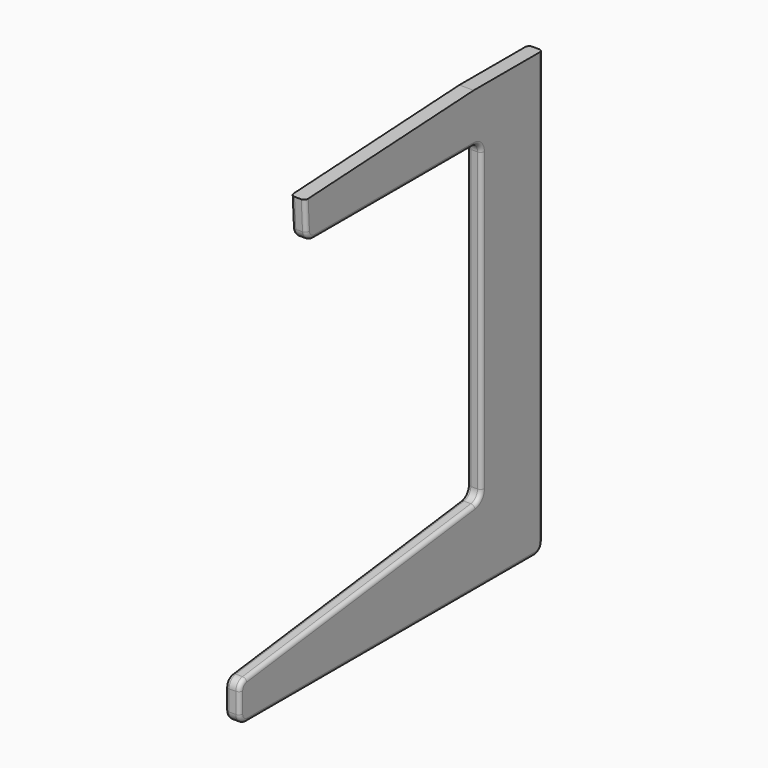
from build123d import *

# Parameters (mm, degrees)
F1_DEPTH = 19.05
F2_R     = 5.08


with BuildPart() as f1:
    # F0 (on Right) → F1 (new body)
    with BuildSketch(Plane.YZ):
        with BuildLine():
            ThreePointArc((269.383617, -334.509083), (278.363873, -330.789339), (282.083617, -321.809083))
            Line((282.083617, -321.809083), (282.083617, 249.690917))
            Line((282.083617, 249.690917), (167.783617, 249.690917))
            Line((167.783617, 249.690917), (-111.203173, 234.501075))
            Line((-111.203173, 234.501075), (-109.095261, 195.785757))
            ThreePointArc((-109.095261, 195.785757), (-105.146778, 187.255069), (-96.414043, 183.776204))
            Line((-96.414043, 183.776204), (167.783617, 183.776204))
            ThreePointArc((167.783617, 183.776204), (176.763873, 180.056461), (180.483617, 171.076204))
            Line((180.483617, 171.076204), (180.483617, -221.719797))
            ThreePointArc((180.483617, -221.719797), (177.312733, -230.115388), (169.383468, -234.318625))
            Line((169.383468, -234.318625), (-208.466234, -282.29954))
            ThreePointArc((-208.466234, -282.29954), (-216.395499, -286.502778), (-219.566383, -294.898368))
            Line((-219.566383, -294.898368), (-219.566383, -321.809083))
            ThreePointArc((-219.566383, -321.809083), (-215.846639, -330.789339), (-206.866383, -334.509083))
            Line((-206.866383, -334.509083), (269.383617, -334.509083))
        make_face()
    extrude(amount=F1_DEPTH)

    # F2
    f2_edges = [f1.edges().sort_by_distance(p)[0] for p in [
        (19.05, -110.149217, 215.143416),
        (0, -110.149217, 215.143416),
    ]]
    fillet(f2_edges, radius=F2_R)


solid = f1.part
